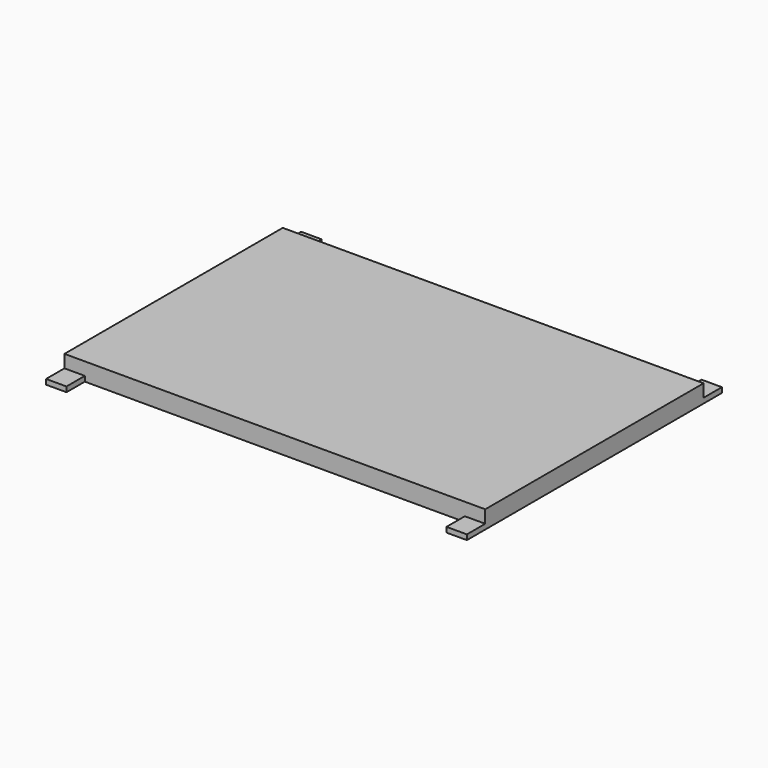
from build123d import *

# Parameters (mm, degrees)
F1_DEPTH = 2
F3_DEPTH = 5


with BuildPart() as f1:
    # F0 (on Top) → F1 (new body)
    with BuildSketch(Plane.XY):
        Polygon((82.5, 53.5), (82.5, 62.5), (74.5, 62.5), (74.5, 53.5), (-74.5, 53.5), (-74.5, 62.5), (-82.5, 62.5), (-82.5, 53.5), (-82.5, -53.5), (-82.5, -62.5), (-74.5, -62.5), (-74.5, -53.5), (74.5, -53.5), (74.5, -62.5), (82.5, -62.5), (82.5, -53.5), align=None)
    extrude(amount=F1_DEPTH)

    # F2 (on face) → F3 (join)
    with BuildSketch(Plane.XY.offset(2)):
        Polygon((82.5, -53.5), (82.5, 53.5), (74.5, 53.5), (-74.5, 53.5), (-82.5, 53.5), (-82.5, -53.5), (-74.5, -53.5), (74.5, -53.5), align=None)
    extrude(amount=F3_DEPTH)


solid = f1.part
